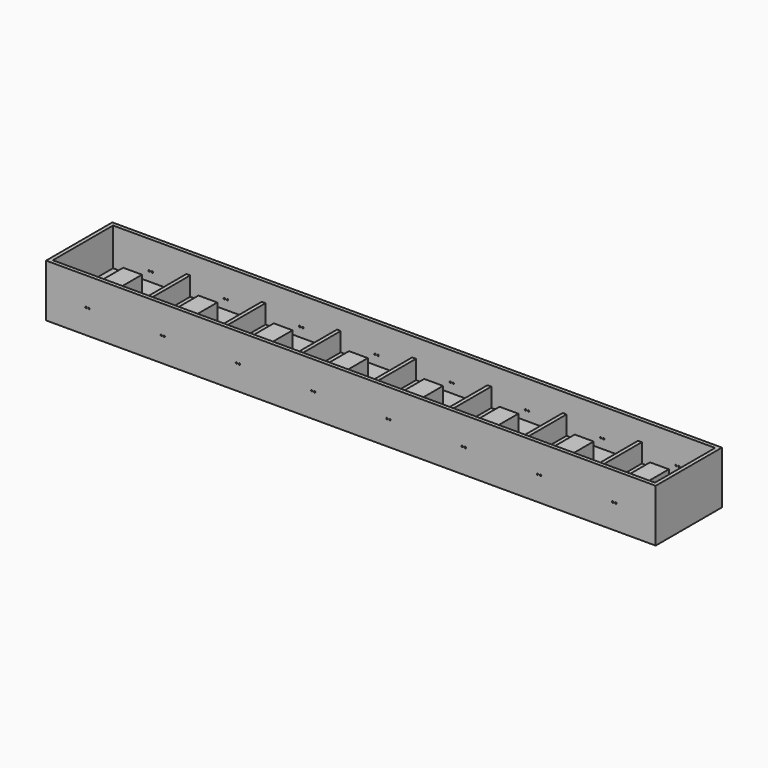
from build123d import *

# Parameters (mm, degrees)
F0_W     = 102.87
F0_H     = 13.97
F0_W_2   = 12.3800332606
F0_H_2   = 12.7
F0_W_3   = 3.175
F0_H_3   = 5.08
F0_W_4   = 12.0600665212
F0_W_5   = 0.6399334788
F1_DEPTH = 2.54
F2_DEPTH = 6.35
F3_DEPTH = 3.175
F5_D     = 0.254
F5_DEPTH = 0.636
F6_D     = 0.254


with BuildPart() as f1:
    # F0 (on Top) → F1 (new body)
    with BuildSketch(Plane.XY):
        with Locations((18.0648645937, 6.35)):
            Rectangle(F0_W, F0_H)
        Polygon((-20.3551021457, 0), (-32.7351354063, 0), (-32.7351354063, 12.7), (-20.3551021457, 12.7), (-19.7151686668, 12.7), (-7.6551021457, 12.7), (-7.0151686668, 12.7), (5.0448978543, 12.7), (5.6848313332, 12.7), (17.7448978543, 12.7), (18.3848313332, 12.7), (30.4448978543, 12.7), (31.0848313332, 12.7), (43.1448978543, 12.7), (43.7848313332, 12.7), (55.8448978543, 12.7), (56.4848313332, 12.7), (68.8648645937, 12.7), (68.8648645937, 0), (56.4848313332, 0), (55.8448978543, 0), (43.7848313332, 0), (43.1448978543, 0), (31.0848313332, 0), (30.4448978543, 0), (18.3848313332, 0), (17.7448978543, 0), (5.6848313332, 0), (5.0448978543, 0), (-7.0151686668, 0), (-7.6551021457, 0), (-19.7151686668, 0), align=None, mode=Mode.SUBTRACT)
        with Locations((62.6748479635, 6.35)):
            Rectangle(F0_W_2, F0_H_2)
        with Locations((62.5148645937, 6.35)):
            Rectangle(F0_W_3, F0_H_3, mode=Mode.SUBTRACT)
        with Locations((-26.545118776, 6.35)):
            Rectangle(F0_W_2, F0_H_2)
        with Locations((-26.3851354063, 6.35)):
            Rectangle(F0_W_3, F0_H_3, mode=Mode.SUBTRACT)
        with Locations((-13.6851354063, 6.35)):
            Rectangle(F0_W_4, F0_H_2)
        with Locations((-13.6851354063, 6.35)):
            Rectangle(F0_W_3, F0_H_3, mode=Mode.SUBTRACT)
        with Locations((-0.9851354063, 6.35)):
            Rectangle(F0_W_4, F0_H_2)
        with Locations((-0.9851354063, 6.35)):
            Rectangle(F0_W_3, F0_H_3, mode=Mode.SUBTRACT)
        with Locations((49.8148645937, 6.35)):
            Rectangle(F0_W_4, F0_H_2)
        with Locations((49.8148645937, 6.35)):
            Rectangle(F0_W_3, F0_H_3, mode=Mode.SUBTRACT)
        with Locations((37.1148645937, 6.35)):
            Rectangle(F0_W_4, F0_H_2)
        with Locations((37.1148645937, 6.35)):
            Rectangle(F0_W_3, F0_H_3, mode=Mode.SUBTRACT)
        with Locations((11.7148645937, 6.35)):
            Rectangle(F0_W_4, F0_H_2)
        with Locations((11.7148645937, 6.35)):
            Rectangle(F0_W_3, F0_H_3, mode=Mode.SUBTRACT)
        with Locations((24.4148645937, 6.35)):
            Rectangle(F0_W_4, F0_H_2)
        with Locations((24.4148645937, 6.35)):
            Rectangle(F0_W_3, F0_H_3, mode=Mode.SUBTRACT)
        with Locations((49.8148645937, 6.35)):
            Rectangle(F0_W_3, F0_H_3)
        with Locations((24.4148645937, 6.35)):
            Rectangle(F0_W_3, F0_H_3)
        with Locations((-26.3851354063, 6.35)):
            Rectangle(F0_W_3, F0_H_3)
        with Locations((-0.9851354063, 6.35)):
            Rectangle(F0_W_3, F0_H_3)
        with Locations((-13.6851354063, 6.35)):
            Rectangle(F0_W_3, F0_H_3)
        with Locations((62.5148645937, 6.35)):
            Rectangle(F0_W_3, F0_H_3)
        with Locations((11.7148645937, 6.35)):
            Rectangle(F0_W_3, F0_H_3)
        with Locations((37.1148645937, 6.35)):
            Rectangle(F0_W_3, F0_H_3)
        with Locations((5.3648645937, 6.35)):
            Rectangle(F0_W_5, F0_H_2)
        with Locations((56.1648645937, 6.35)):
            Rectangle(F0_W_5, F0_H_2)
        with Locations((18.0648645937, 6.35)):
            Rectangle(F0_W_5, F0_H_2)
        with Locations((30.7648645937, 6.35)):
            Rectangle(F0_W_5, F0_H_2)
        with Locations((43.4648645937, 6.35)):
            Rectangle(F0_W_5, F0_H_2)
        with Locations((-7.3351354063, 6.35)):
            Rectangle(F0_W_5, F0_H_2)
        with Locations((-20.0351354063, 6.35)):
            Rectangle(F0_W_5, F0_H_2)
    extrude(amount=-F1_DEPTH)

    # F0 (on Top) → F2 (join)
    with BuildSketch(Plane.XY):
        with Locations((18.0648645937, 6.35)):
            Rectangle(F0_W, F0_H)
        Polygon((-20.3551021457, 0), (-32.7351354063, 0), (-32.7351354063, 12.7), (-20.3551021457, 12.7), (-19.7151686668, 12.7), (-7.6551021457, 12.7), (-7.0151686668, 12.7), (5.0448978543, 12.7), (5.6848313332, 12.7), (17.7448978543, 12.7), (18.3848313332, 12.7), (30.4448978543, 12.7), (31.0848313332, 12.7), (43.1448978543, 12.7), (43.7848313332, 12.7), (55.8448978543, 12.7), (56.4848313332, 12.7), (68.8648645937, 12.7), (68.8648645937, 0), (56.4848313332, 0), (55.8448978543, 0), (43.7848313332, 0), (43.1448978543, 0), (31.0848313332, 0), (30.4448978543, 0), (18.3848313332, 0), (17.7448978543, 0), (5.6848313332, 0), (5.0448978543, 0), (-7.0151686668, 0), (-7.6551021457, 0), (-19.7151686668, 0), align=None, mode=Mode.SUBTRACT)
    extrude(amount=F2_DEPTH)

    # F0 (on Top) → F3 (join)
    with BuildSketch(Plane.XY):
        with Locations((-26.3851354063, 6.35)):
            Rectangle(F0_W_3, F0_H_3)
        with Locations((-13.6851354063, 6.35)):
            Rectangle(F0_W_3, F0_H_3)
        with Locations((-0.9851354063, 6.35)):
            Rectangle(F0_W_3, F0_H_3)
        with Locations((11.7148645937, 6.35)):
            Rectangle(F0_W_3, F0_H_3)
        with Locations((24.4148645937, 6.35)):
            Rectangle(F0_W_3, F0_H_3)
        with Locations((37.1148645937, 6.35)):
            Rectangle(F0_W_3, F0_H_3)
        with Locations((49.8148645937, 6.35)):
            Rectangle(F0_W_3, F0_H_3)
        with Locations((62.5148645937, 6.35)):
            Rectangle(F0_W_3, F0_H_3)
        with Locations((56.1648645937, 6.35)):
            Rectangle(F0_W_5, F0_H_2)
        with Locations((43.4648645937, 6.35)):
            Rectangle(F0_W_5, F0_H_2)
        with Locations((30.7648645937, 6.35)):
            Rectangle(F0_W_5, F0_H_2)
        with Locations((18.0648645937, 6.35)):
            Rectangle(F0_W_5, F0_H_2)
        with Locations((5.3648645937, 6.35)):
            Rectangle(F0_W_5, F0_H_2)
        with Locations((-7.3351354063, 6.35)):
            Rectangle(F0_W_5, F0_H_2)
        with Locations((-20.0351354063, 6.35)):
            Rectangle(F0_W_5, F0_H_2)
    extrude(amount=F3_DEPTH)

    # F5 (through all, one way)
    with BuildSketch(Plane(origin=(0, 0, 0), x_dir=(-1, 0, 0), z_dir=(0, 1, 0))):
        with Locations((26.6391354063, 1.5875), (26.1311354063, 1.5875), (13.9391354063, 1.5875), (13.4311354063, 1.5875), (1.2391354063, 1.5875), (0.7311354063, 1.5875), (-11.4608645937, 1.5875), (-11.9688645937, 1.5875), (-24.1608645937, 1.5875), (-24.6688645937, 1.5875), (-36.8608645937, 1.5875), (-37.3688645937, 1.5875), (-49.5608645937, 1.5875), (-50.0688645937, 1.5875), (-62.2608645937, 1.5875), (-62.7688645937, 1.5875)):
            Circle(F5_D / 2)
    extrude(amount=-F5_DEPTH, mode=Mode.SUBTRACT)

    # F6 (through all)
    with Locations(Plane(origin=(0, 0, 0), x_dir=(-1, 0, 0), z_dir=(0, -1, 0))):
        with Locations((-62.7688645937, -1.5875), (-62.2608645937, -1.5875), (-50.0688645937, -1.5875), (-49.5608645937, -1.5875), (-37.3688645937, -1.5875), (-36.8608645937, -1.5875), (-24.6688645937, -1.5875), (-24.1608645937, -1.5875), (-11.9688645937, -1.5875), (-11.4608645937, -1.5875), (0.7311354063, -1.5875), (1.2391354063, -1.5875), (13.4311354063, -1.5875), (13.9391354063, -1.5875), (26.1311354063, -1.5875), (26.6391354063, -1.5875)):
            Hole(F6_D / 2)


solid = f1.part
